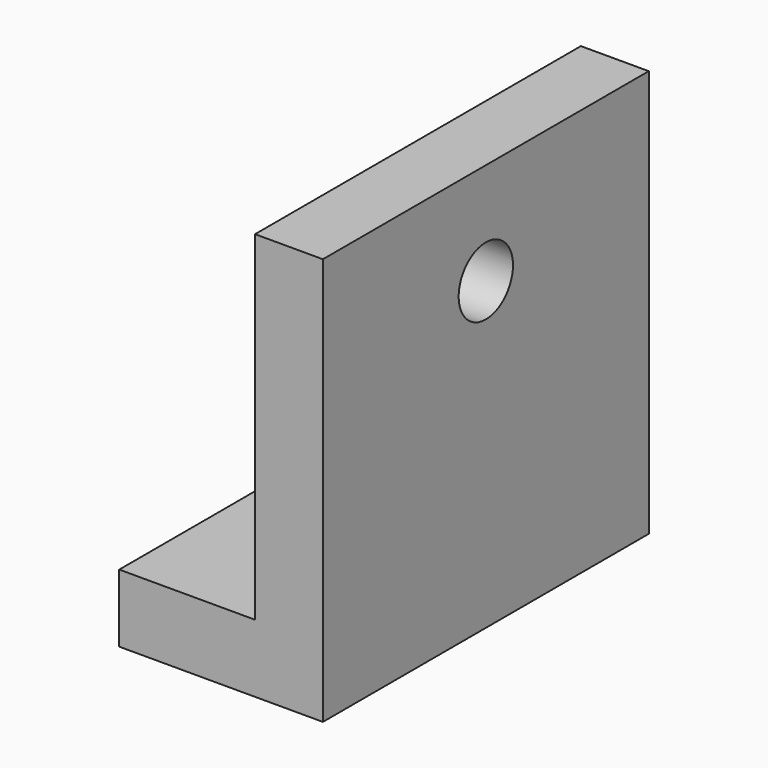
from build123d import *

# Parameters (mm, degrees)
F0_W     = 25.4
F0_H     = 25.4
F0_H_2   = 63.5
F1_DEPTH = 76.2
F2_R     = 12.7
F3_DEPTH = 76.201


with BuildPart() as f1:
    # F0 (on Front) → F1 (new body, symmetric)
    with BuildSketch(Plane.XZ):
        Polygon((-50.8, 0), (0, 0), (0, 88.9), (-25.4, 88.9), (-25.4, 25.4), (-50.8, 25.4), align=None)
        with Locations((-63.5, 12.7)):
            Rectangle(F0_W, F0_H)
        with Locations((-12.7, 120.65)):
            Rectangle(F0_W, F0_H_2)
    extrude(amount=F1_DEPTH, both=True)

    # F2 (on face) → F3 (cut, through all)
    with BuildSketch(Plane.YZ):
        with Locations((0, 114.3)):
            Circle(F2_R)
    extrude(amount=-F3_DEPTH, mode=Mode.SUBTRACT)


solid = f1.part
